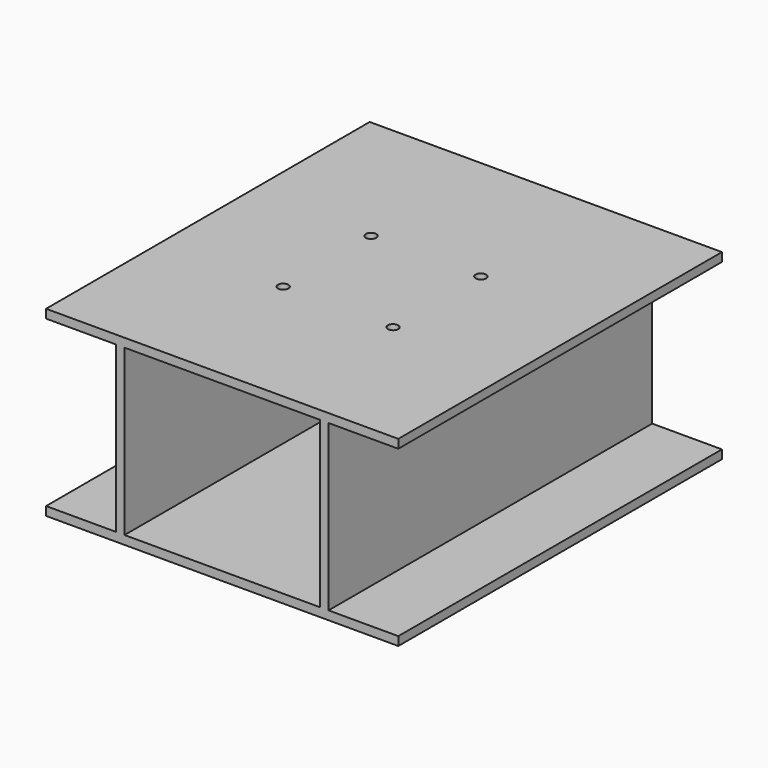
from build123d import *

# Parameters (mm, degrees)
F0_W     = 320.675
F0_H     = 368.3
F1_DEPTH = 166.06266
F3_D     = 9.525
F3_DEPTH = 38.1
F4_W     = 63.5
F4_H     = 150.18766
F4_W_2   = 177.8
F5_DEPTH = 368.301


with BuildPart() as f1:
    # F0 (on Top) → F1 (new body)
    with BuildSketch(Plane.XY):
        with Locations((-0.724893, 21.601411)):
            Rectangle(F0_W, F0_H)
    extrude(amount=F1_DEPTH)

    # F3
    with Locations(Plane.XY.offset(166.06266)):
        with Locations((-50.724693, 69.373731), (49.275107, 69.373731), (49.275107, -30.626069), (-50.724693, -30.626069)):
            Hole(F3_D / 2, depth=F3_DEPTH)

    # F4 (on face) → F5 (cut, through all)
    with BuildSketch(Plane.XZ.offset(162.548589)):
        with Locations((-129.312393, 83.03133)):
            Rectangle(F4_W, F4_H)
        with Locations((127.862607, 83.03133)):
            Rectangle(F4_W, F4_H)
        with Locations((-0.724893, 83.03133)):
            Rectangle(F4_W_2, F4_H)
    extrude(amount=-F5_DEPTH, mode=Mode.SUBTRACT)


solid = f1.part
